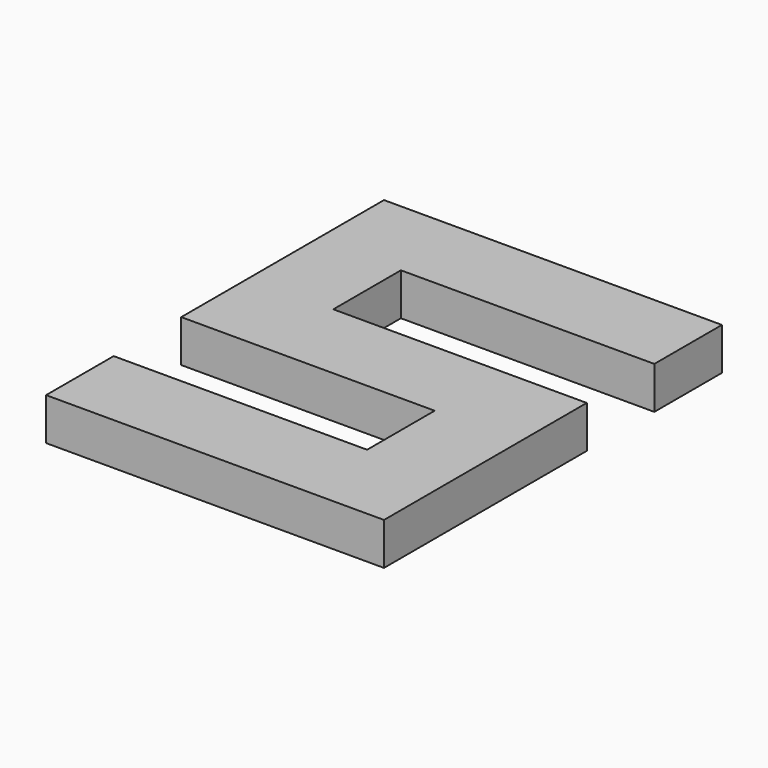
from build123d import *

# Parameters (mm, degrees)
F0_W     = 150
F0_H     = 50
F0_W_2   = 50
F0_W_3   = 100
F1_DEPTH = 25


with BuildPart() as f1:
    # F0 (on Top) → F1 (new body)
    with BuildSketch(Plane.XY):
        with Locations((26.636132, 125)):
            Rectangle(F0_W, F0_H)
        with Locations((-73.363868, 125)):
            Rectangle(F0_W_2, F0_H)
        with Locations((-73.363868, 75)):
            Rectangle(F0_W_2, F0_H)
        with Locations((1.636132, 25)):
            Rectangle(F0_W_3, F0_H)
        with Locations((-73.363868, 25)):
            Rectangle(F0_W_2, F0_H)
        with Locations((76.636132, 25)):
            Rectangle(F0_W_2, F0_H)
        with Locations((76.636132, -25)):
            Rectangle(F0_W_2, F0_H)
        with Locations((76.636132, -75)):
            Rectangle(F0_W_2, F0_H)
        with Locations((-23.363868, -75)):
            Rectangle(F0_W, F0_H)
    extrude(amount=F1_DEPTH)


solid = f1.part
